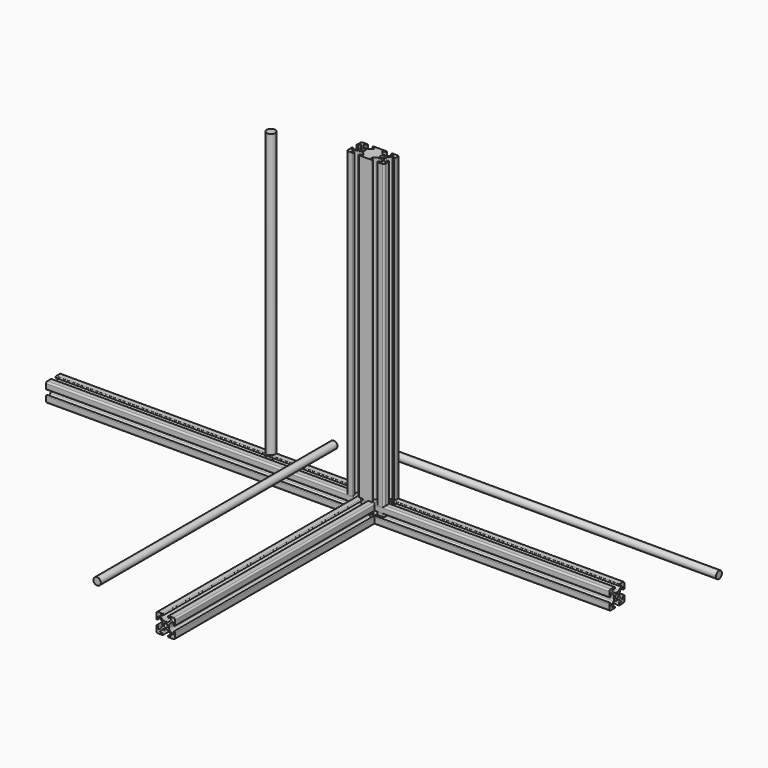
from build123d import *

# Parameters (mm, degrees)
F5_R      = 2.6035
F6_DEPTH  = 350
F7_R      = 6
F8_DEPTH  = 395
F9_R      = 5
F10_DEPTH = 440
F11_R     = 5
F12_DEPTH = 400
F13_R     = 2.6035
F14_DEPTH = 330
F15_R     = 2.6035
F16_DEPTH = 420
F17_DEPTH = 431.6


with BuildPart() as f6:
    # F5 (on Front) → F6 (new body)
    with BuildSketch(Plane.XZ):
        with BuildLine():
            Line((-4.3700887345, 12.7645782537), (-10.6184887345, 12.7645782537))
            ThreePointArc((-10.6184887345, 12.7645782537), (-12.1092112506, 12.1471007698), (-12.7266887345, 10.6563782537))
            Line((-12.7266887345, 10.6563782537), (-12.7266887345, 4.4079782537))
            ThreePointArc((-12.7266887345, 4.4079782537), (-11.6217887345, 3.3030782537), (-10.5168887345, 4.4079782537))
            Line((-10.5168887345, 4.4079782537), (-10.5168887345, 6.4641082537))
            ThreePointArc((-10.5168887345, 6.4641082537), (-9.8787192133, 7.4191964369), (-8.7521158863, 7.195101102))
            Line((-8.7521158863, 7.195101102), (-5.4651247043, 3.90810992))
            ThreePointArc((-5.4651247043, 3.90810992), (-4.7768712188, 2.8780657875), (-4.5351887345, 1.6630458897))
            Line((-4.5351887345, 1.6630458897), (-4.5351887345, -1.5338893822))
            ThreePointArc((-4.5351887345, -1.5338893822), (-4.7768712188, -2.74890928), (-5.4651247043, -3.7789534125))
            Line((-5.4651247043, -3.7789534125), (-8.7521158863, -7.0659445945))
            ThreePointArc((-8.7521158863, -7.0659445945), (-9.8787192133, -7.2900399294), (-10.5168887345, -6.3349517463))
            Line((-10.5168887345, -6.3349517463), (-10.5168887345, -4.2788217463))
            ThreePointArc((-10.5168887345, -4.2788217463), (-11.6217887345, -3.1739217463), (-12.7266887345, -4.2788217463))
            Line((-12.7266887345, -4.2788217463), (-12.7266887345, -10.5272217463))
            ThreePointArc((-12.7266887345, -10.5272217463), (-12.1092112506, -12.0179442624), (-10.6184887345, -12.6354217463))
            Line((-10.6184887345, -12.6354217463), (-4.3700887345, -12.6354217463))
            ThreePointArc((-4.3700887345, -12.6354217463), (-3.2651887345, -11.5305217463), (-4.3700887345, -10.4256217463))
            Line((-4.3700887345, -10.4256217463), (-6.4262187345, -10.4256217463))
            ThreePointArc((-6.4262187345, -10.4256217463), (-7.3813069177, -9.787452225), (-7.1572115828, -8.660848898))
            Line((-7.1572115828, -8.660848898), (-3.8702204008, -5.373857716))
            ThreePointArc((-3.8702204008, -5.373857716), (-2.8401762683, -4.6856042305), (-1.6251563705, -4.4439217463))
            Line((-1.6251563705, -4.4439217463), (1.5717789014, -4.4439217463))
            ThreePointArc((1.5717789014, -4.4439217463), (2.7867987992, -4.6856042305), (3.8168429317, -5.373857716))
            Line((3.8168429317, -5.373857716), (7.1038341137, -8.660848898))
            ThreePointArc((7.1038341137, -8.660848898), (7.3279294486, -9.787452225), (6.3728412655, -10.4256217463))
            Line((6.3728412655, -10.4256217463), (4.3167112655, -10.4256217463))
            ThreePointArc((4.3167112655, -10.4256217463), (3.2118112655, -11.5305217463), (4.3167112655, -12.6354217463))
            Line((4.3167112655, -12.6354217463), (10.5651112655, -12.6354217463))
            ThreePointArc((10.5651112655, -12.6354217463), (12.0558337816, -12.0179442624), (12.6733112655, -10.5272217463))
            Line((12.6733112655, -10.5272217463), (12.6733112655, -4.2788217463))
            ThreePointArc((12.6733112655, -4.2788217463), (11.5684112655, -3.1739217463), (10.4635112655, -4.2788217463))
            Line((10.4635112655, -4.2788217463), (10.4635112655, -6.3349517463))
            ThreePointArc((10.4635112655, -6.3349517463), (9.8253417442, -7.2900399294), (8.6987384172, -7.0659445945))
            Line((8.6987384172, -7.0659445945), (5.4117472352, -3.7789534125))
            ThreePointArc((5.4117472352, -3.7789534125), (4.7234937497, -2.74890928), (4.4818112655, -1.5338893822))
            Line((4.4818112655, -1.5338893822), (4.4818112655, 1.6630458897))
            ThreePointArc((4.4818112655, 1.6630458897), (4.7234937497, 2.8780657875), (5.4117472352, 3.90810992))
            Line((5.4117472352, 3.90810992), (8.6987384172, 7.195101102))
            ThreePointArc((8.6987384172, 7.195101102), (9.8253417442, 7.4191964369), (10.4635112655, 6.4641082537))
            Line((10.4635112655, 6.4641082537), (10.4635112655, 4.4079782537))
            ThreePointArc((10.4635112655, 4.4079782537), (11.5684112655, 3.3030782537), (12.6733112655, 4.4079782537))
            Line((12.6733112655, 4.4079782537), (12.6733112655, 10.6563782537))
            ThreePointArc((12.6733112655, 10.6563782537), (12.0558337816, 12.1471007698), (10.5651112655, 12.7645782537))
            Line((10.5651112655, 12.7645782537), (4.3167112655, 12.7645782537))
            ThreePointArc((4.3167112655, 12.7645782537), (3.2118112655, 11.6596782537), (4.3167112655, 10.5547782537))
            Line((4.3167112655, 10.5547782537), (6.3728412655, 10.5547782537))
            ThreePointArc((6.3728412655, 10.5547782537), (7.3279294486, 9.9166087325), (7.1038341137, 8.7900054055))
            Line((7.1038341137, 8.7900054055), (3.8168429317, 5.5030142235))
            ThreePointArc((3.8168429317, 5.5030142235), (2.7867987992, 4.814760738), (1.5717789014, 4.5730782537))
            Line((1.5717789014, 4.5730782537), (-1.6251563705, 4.5730782537))
            ThreePointArc((-1.6251563705, 4.5730782537), (-2.8401762683, 4.814760738), (-3.8702204008, 5.5030142235))
            Line((-3.8702204008, 5.5030142235), (-7.1572115828, 8.7900054055))
            ThreePointArc((-7.1572115828, 8.7900054055), (-7.3813069177, 9.9166087325), (-6.4262187345, 10.5547782537))
            Line((-6.4262187345, 10.5547782537), (-4.3700887345, 10.5547782537))
            ThreePointArc((-4.3700887345, 10.5547782537), (-3.2651887345, 11.6596782537), (-4.3700887345, 12.7645782537))
        make_face()
        with Locations((-0.0266887345, 0.0645782537)):
            Circle(F5_R, mode=Mode.SUBTRACT)
    extrude(amount=F6_DEPTH)


with BuildPart() as f8:
    # F7 (on Top) → F8 (new body)
    with BuildSketch(Plane.XY):
        with Locations((-145.1265960932, 9.3670319766)):
            Circle(F7_R)
    extrude(amount=F8_DEPTH)


with BuildPart() as f10:
    # F9 (on Right) → F10 (new body)
    with BuildSketch(Plane.YZ):
        with Locations((35.0870341063, 47.0510870218)):
            Circle(F9_R)
    extrude(amount=F10_DEPTH)


with BuildPart() as f12:
    # F11 (on Front) → F12 (new body)
    with BuildSketch(Plane.XZ):
        with Locations((-52.7701899409, 55.8588542044)):
            Circle(F11_R)
    extrude(amount=F12_DEPTH)


with BuildPart() as f14:
    # F13 (on Right) → F14 (new body)
    with BuildSketch(Plane.YZ):
        with BuildLine():
            Line((-4.3700887345, 12.7645782537), (-10.6184887345, 12.7645782537))
            ThreePointArc((-10.6184887345, 12.7645782537), (-12.1092112506, 12.1471007698), (-12.7266887345, 10.6563782537))
            Line((-12.7266887345, 10.6563782537), (-12.7266887345, 4.4079782537))
            ThreePointArc((-12.7266887345, 4.4079782537), (-11.6217887345, 3.3030782537), (-10.5168887345, 4.4079782537))
            Line((-10.5168887345, 4.4079782537), (-10.5168887345, 6.4641082537))
            ThreePointArc((-10.5168887345, 6.4641082537), (-9.8787192133, 7.4191964369), (-8.7521158863, 7.195101102))
            Line((-8.7521158863, 7.195101102), (-5.4651247043, 3.90810992))
            ThreePointArc((-5.4651247043, 3.90810992), (-4.7768712188, 2.8780657875), (-4.5351887345, 1.6630458897))
            Line((-4.5351887345, 1.6630458897), (-4.5351887345, -1.5338893822))
            ThreePointArc((-4.5351887345, -1.5338893822), (-4.7768712188, -2.74890928), (-5.4651247043, -3.7789534125))
            Line((-5.4651247043, -3.7789534125), (-8.7521158863, -7.0659445945))
            ThreePointArc((-8.7521158863, -7.0659445945), (-9.8787192133, -7.2900399294), (-10.5168887345, -6.3349517463))
            Line((-10.5168887345, -6.3349517463), (-10.5168887345, -4.2788217463))
            ThreePointArc((-10.5168887345, -4.2788217463), (-11.6217887345, -3.1739217463), (-12.7266887345, -4.2788217463))
            Line((-12.7266887345, -4.2788217463), (-12.7266887345, -10.5272217463))
            ThreePointArc((-12.7266887345, -10.5272217463), (-12.1092112506, -12.0179442624), (-10.6184887345, -12.6354217463))
            Line((-10.6184887345, -12.6354217463), (-4.3700887345, -12.6354217463))
            ThreePointArc((-4.3700887345, -12.6354217463), (-3.2651887345, -11.5305217463), (-4.3700887345, -10.4256217463))
            Line((-4.3700887345, -10.4256217463), (-6.4262187345, -10.4256217463))
            ThreePointArc((-6.4262187345, -10.4256217463), (-7.3813069177, -9.787452225), (-7.1572115828, -8.660848898))
            Line((-7.1572115828, -8.660848898), (-3.8702204008, -5.373857716))
            ThreePointArc((-3.8702204008, -5.373857716), (-2.8401762683, -4.6856042305), (-1.6251563705, -4.4439217463))
            Line((-1.6251563705, -4.4439217463), (1.5717789014, -4.4439217463))
            ThreePointArc((1.5717789014, -4.4439217463), (2.7867987992, -4.6856042305), (3.8168429317, -5.373857716))
            Line((3.8168429317, -5.373857716), (7.1038341137, -8.660848898))
            ThreePointArc((7.1038341137, -8.660848898), (7.3279294486, -9.787452225), (6.3728412655, -10.4256217463))
            Line((6.3728412655, -10.4256217463), (4.3167112655, -10.4256217463))
            ThreePointArc((4.3167112655, -10.4256217463), (3.2118112655, -11.5305217463), (4.3167112655, -12.6354217463))
            Line((4.3167112655, -12.6354217463), (10.5651112655, -12.6354217463))
            ThreePointArc((10.5651112655, -12.6354217463), (12.0558337816, -12.0179442624), (12.6733112655, -10.5272217463))
            Line((12.6733112655, -10.5272217463), (12.6733112655, -4.2788217463))
            ThreePointArc((12.6733112655, -4.2788217463), (11.5684112655, -3.1739217463), (10.4635112655, -4.2788217463))
            Line((10.4635112655, -4.2788217463), (10.4635112655, -6.3349517463))
            ThreePointArc((10.4635112655, -6.3349517463), (9.8253417442, -7.2900399294), (8.6987384172, -7.0659445945))
            Line((8.6987384172, -7.0659445945), (5.4117472352, -3.7789534125))
            ThreePointArc((5.4117472352, -3.7789534125), (4.7234937497, -2.74890928), (4.4818112655, -1.5338893822))
            Line((4.4818112655, -1.5338893822), (4.4818112655, 1.6630458897))
            ThreePointArc((4.4818112655, 1.6630458897), (4.7234937497, 2.8780657875), (5.4117472352, 3.90810992))
            Line((5.4117472352, 3.90810992), (8.6987384172, 7.195101102))
            ThreePointArc((8.6987384172, 7.195101102), (9.8253417442, 7.4191964369), (10.4635112655, 6.4641082537))
            Line((10.4635112655, 6.4641082537), (10.4635112655, 4.4079782537))
            ThreePointArc((10.4635112655, 4.4079782537), (11.5684112655, 3.3030782537), (12.6733112655, 4.4079782537))
            Line((12.6733112655, 4.4079782537), (12.6733112655, 10.6563782537))
            ThreePointArc((12.6733112655, 10.6563782537), (12.0558337816, 12.1471007698), (10.5651112655, 12.7645782537))
            Line((10.5651112655, 12.7645782537), (4.3167112655, 12.7645782537))
            ThreePointArc((4.3167112655, 12.7645782537), (3.2118112655, 11.6596782537), (4.3167112655, 10.5547782537))
            Line((4.3167112655, 10.5547782537), (6.3728412655, 10.5547782537))
            ThreePointArc((6.3728412655, 10.5547782537), (7.3279294486, 9.9166087325), (7.1038341137, 8.7900054055))
            Line((7.1038341137, 8.7900054055), (3.8168429317, 5.5030142235))
            ThreePointArc((3.8168429317, 5.5030142235), (2.7867987992, 4.814760738), (1.5717789014, 4.5730782537))
            Line((1.5717789014, 4.5730782537), (-1.6251563705, 4.5730782537))
            ThreePointArc((-1.6251563705, 4.5730782537), (-2.8401762683, 4.814760738), (-3.8702204008, 5.5030142235))
            Line((-3.8702204008, 5.5030142235), (-7.1572115828, 8.7900054055))
            ThreePointArc((-7.1572115828, 8.7900054055), (-7.3813069177, 9.9166087325), (-6.4262187345, 10.5547782537))
            Line((-6.4262187345, 10.5547782537), (-4.3700887345, 10.5547782537))
            ThreePointArc((-4.3700887345, 10.5547782537), (-3.2651887345, 11.6596782537), (-4.3700887345, 12.7645782537))
        make_face()
        with Locations((-0.0266887345, 0.0645782537)):
            Circle(F13_R, mode=Mode.SUBTRACT)
    extrude(amount=F14_DEPTH)


with BuildPart() as f16:
    # F15 (on Top) → F16 (new body)
    with BuildSketch(Plane.XY):
        with BuildLine():
            Line((-17.0434, 12.7), (-23.2918, 12.7))
            ThreePointArc((-23.2918, 12.7), (-24.7825225161, 12.0825225161), (-25.4, 10.5918))
            Line((-25.4, 10.5918), (-25.4, 4.3434))
            ThreePointArc((-25.4, 4.3434), (-24.2951, 3.2385), (-23.1902, 4.3434))
            Line((-23.1902, 4.3434), (-23.1902, 6.39953))
            ThreePointArc((-23.1902, 6.39953), (-22.5520304787, 7.3546181831), (-21.4254271517, 7.1305228483))
            Line((-21.4254271517, 7.1305228483), (-18.1384359697, 3.8435316662))
            ThreePointArc((-18.1384359697, 3.8435316662), (-17.4501824843, 2.8134875337), (-17.2085, 1.598467636))
            Line((-17.2085, 1.598467636), (-17.2085, -1.598467636))
            ThreePointArc((-17.2085, -1.598467636), (-17.4501824843, -2.8134875337), (-18.1384359697, -3.8435316662))
            Line((-18.1384359697, -3.8435316662), (-21.4254271517, -7.1305228483))
            ThreePointArc((-21.4254271517, -7.1305228483), (-22.5520304787, -7.3546181831), (-23.1902, -6.39953))
            Line((-23.1902, -6.39953), (-23.1902, -4.3434))
            ThreePointArc((-23.1902, -4.3434), (-24.2951, -3.2385), (-25.4, -4.3434))
            Line((-25.4, -4.3434), (-25.4, -10.5918))
            ThreePointArc((-25.4, -10.5918), (-24.7825225161, -12.0825225161), (-23.2918, -12.7))
            Line((-23.2918, -12.7), (-17.0434, -12.7))
            ThreePointArc((-17.0434, -12.7), (-15.9385, -11.5951), (-17.0434, -10.4902))
            Line((-17.0434, -10.4902), (-19.09953, -10.4902))
            ThreePointArc((-19.09953, -10.4902), (-20.0546181831, -9.8520304787), (-19.8305228483, -8.7254271517))
            Line((-19.8305228483, -8.7254271517), (-16.5435316662, -5.4384359697))
            ThreePointArc((-16.5435316662, -5.4384359697), (-15.5134875337, -4.7501824843), (-14.298467636, -4.5085))
            Line((-14.298467636, -4.5085), (-11.101532364, -4.5085))
            ThreePointArc((-11.101532364, -4.5085), (-9.8865124663, -4.7501824843), (-8.8564683338, -5.4384359697))
            Line((-8.8564683338, -5.4384359697), (-5.5694771517, -8.7254271517))
            ThreePointArc((-5.5694771517, -8.7254271517), (-5.3453818169, -9.8520304787), (-6.30047, -10.4902))
            Line((-6.30047, -10.4902), (-8.3566, -10.4902))
            ThreePointArc((-8.3566, -10.4902), (-9.4615, -11.5951), (-8.3566, -12.7))
            Line((-8.3566, -12.7), (2.1082, -12.7))
            Line((2.1082, -12.7), (8.3566, -12.7))
            ThreePointArc((8.3566, -12.7), (9.4615, -11.5951), (8.3566, -10.4902))
            Line((8.3566, -10.4902), (6.30047, -10.4902))
            ThreePointArc((6.30047, -10.4902), (5.3453818169, -9.8520304787), (5.5694771517, -8.7254271517))
            Line((5.5694771517, -8.7254271517), (8.8564683338, -5.4384359697))
            ThreePointArc((8.8564683338, -5.4384359697), (9.8865124663, -4.7501824843), (11.101532364, -4.5085))
            Line((11.101532364, -4.5085), (14.298467636, -4.5085))
            ThreePointArc((14.298467636, -4.5085), (15.5134875337, -4.7501824843), (16.5435316662, -5.4384359697))
            Line((16.5435316662, -5.4384359697), (19.8305228483, -8.7254271517))
            ThreePointArc((19.8305228483, -8.7254271517), (20.0546181831, -9.8520304787), (19.09953, -10.4902))
            Line((19.09953, -10.4902), (17.0434, -10.4902))
            ThreePointArc((17.0434, -10.4902), (15.9385, -11.5951), (17.0434, -12.7))
            Line((17.0434, -12.7), (23.2918, -12.7))
            ThreePointArc((23.2918, -12.7), (24.7825225161, -12.0825225161), (25.4, -10.5918))
            Line((25.4, -10.5918), (25.4, -4.3434))
            ThreePointArc((25.4, -4.3434), (24.2951, -3.2385), (23.1902, -4.3434))
            Line((23.1902, -4.3434), (23.1902, -6.39953))
            ThreePointArc((23.1902, -6.39953), (22.5520304787, -7.3546181831), (21.4254271517, -7.1305228483))
            Line((21.4254271517, -7.1305228483), (18.1384359697, -3.8435316662))
            ThreePointArc((18.1384359697, -3.8435316662), (17.4501824843, -2.8134875337), (17.2085, -1.598467636))
            Line((17.2085, -1.598467636), (17.2085, 1.598467636))
            ThreePointArc((17.2085, 1.598467636), (17.4501824843, 2.8134875337), (18.1384359697, 3.8435316662))
            Line((18.1384359697, 3.8435316662), (21.4254271517, 7.1305228483))
            ThreePointArc((21.4254271517, 7.1305228483), (22.5520304787, 7.3546181831), (23.1902, 6.39953))
            Line((23.1902, 6.39953), (23.1902, 4.3434))
            ThreePointArc((23.1902, 4.3434), (24.2951, 3.2385), (25.4, 4.3434))
            Line((25.4, 4.3434), (25.4, 10.5918))
            ThreePointArc((25.4, 10.5918), (24.7825225161, 12.0825225161), (23.2918, 12.7))
            Line((23.2918, 12.7), (17.0434, 12.7))
            ThreePointArc((17.0434, 12.7), (15.9385, 11.5951), (17.0434, 10.4902))
            Line((17.0434, 10.4902), (19.09953, 10.4902))
            ThreePointArc((19.09953, 10.4902), (20.0546181831, 9.8520304787), (19.8305228483, 8.7254271517))
            Line((19.8305228483, 8.7254271517), (16.5435316662, 5.4384359697))
            ThreePointArc((16.5435316662, 5.4384359697), (15.5134875337, 4.7501824843), (14.298467636, 4.5085))
            Line((14.298467636, 4.5085), (11.101532364, 4.5085))
            ThreePointArc((11.101532364, 4.5085), (9.8865124663, 4.7501824843), (8.8564683338, 5.4384359697))
            Line((8.8564683338, 5.4384359697), (5.5694771517, 8.7254271517))
            ThreePointArc((5.5694771517, 8.7254271517), (5.3453818169, 9.8520304787), (6.30047, 10.4902))
            Line((6.30047, 10.4902), (8.3566, 10.4902))
            ThreePointArc((8.3566, 10.4902), (9.4615, 11.5951), (8.3566, 12.7))
            Line((8.3566, 12.7), (2.1082, 12.7))
            Line((2.1082, 12.7), (-8.3566, 12.7))
            ThreePointArc((-8.3566, 12.7), (-9.4615, 11.5951), (-8.3566, 10.4902))
            Line((-8.3566, 10.4902), (-6.30047, 10.4902))
            ThreePointArc((-6.30047, 10.4902), (-5.3453818169, 9.8520304787), (-5.5694771517, 8.7254271517))
            Line((-5.5694771517, 8.7254271517), (-8.8564683338, 5.4384359697))
            ThreePointArc((-8.8564683338, 5.4384359697), (-9.8865124663, 4.7501824843), (-11.101532364, 4.5085))
            Line((-11.101532364, 4.5085), (-14.298467636, 4.5085))
            ThreePointArc((-14.298467636, 4.5085), (-15.5134875337, 4.7501824843), (-16.5435316662, 5.4384359697))
            Line((-16.5435316662, 5.4384359697), (-19.8305228483, 8.7254271517))
            ThreePointArc((-19.8305228483, 8.7254271517), (-20.0546181831, 9.8520304787), (-19.09953, 10.4902))
            Line((-19.09953, 10.4902), (-17.0434, 10.4902))
            ThreePointArc((-17.0434, 10.4902), (-15.9385, 11.5951), (-17.0434, 12.7))
        make_face()
        with Locations((-12.7, 0)):
            Circle(F15_R, mode=Mode.SUBTRACT)
        with Locations((12.7, 0)):
            Circle(F15_R, mode=Mode.SUBTRACT)
    extrude(amount=F16_DEPTH)


with BuildPart() as f17:
    # F13 (on Right) → F17 (new body)
    with BuildSketch(Plane.YZ):
        with BuildLine():
            Line((-4.3700887345, 12.7645782537), (-10.6184887345, 12.7645782537))
            ThreePointArc((-10.6184887345, 12.7645782537), (-12.1092112506, 12.1471007698), (-12.7266887345, 10.6563782537))
            Line((-12.7266887345, 10.6563782537), (-12.7266887345, 4.4079782537))
            ThreePointArc((-12.7266887345, 4.4079782537), (-11.6217887345, 3.3030782537), (-10.5168887345, 4.4079782537))
            Line((-10.5168887345, 4.4079782537), (-10.5168887345, 6.4641082537))
            ThreePointArc((-10.5168887345, 6.4641082537), (-9.8787192133, 7.4191964369), (-8.7521158863, 7.195101102))
            Line((-8.7521158863, 7.195101102), (-5.4651247043, 3.90810992))
            ThreePointArc((-5.4651247043, 3.90810992), (-4.7768712188, 2.8780657875), (-4.5351887345, 1.6630458897))
            Line((-4.5351887345, 1.6630458897), (-4.5351887345, -1.5338893822))
            ThreePointArc((-4.5351887345, -1.5338893822), (-4.7768712188, -2.74890928), (-5.4651247043, -3.7789534125))
            Line((-5.4651247043, -3.7789534125), (-8.7521158863, -7.0659445945))
            ThreePointArc((-8.7521158863, -7.0659445945), (-9.8787192133, -7.2900399294), (-10.5168887345, -6.3349517463))
            Line((-10.5168887345, -6.3349517463), (-10.5168887345, -4.2788217463))
            ThreePointArc((-10.5168887345, -4.2788217463), (-11.6217887345, -3.1739217463), (-12.7266887345, -4.2788217463))
            Line((-12.7266887345, -4.2788217463), (-12.7266887345, -10.5272217463))
            ThreePointArc((-12.7266887345, -10.5272217463), (-12.1092112506, -12.0179442624), (-10.6184887345, -12.6354217463))
            Line((-10.6184887345, -12.6354217463), (-4.3700887345, -12.6354217463))
            ThreePointArc((-4.3700887345, -12.6354217463), (-3.2651887345, -11.5305217463), (-4.3700887345, -10.4256217463))
            Line((-4.3700887345, -10.4256217463), (-6.4262187345, -10.4256217463))
            ThreePointArc((-6.4262187345, -10.4256217463), (-7.3813069177, -9.787452225), (-7.1572115828, -8.660848898))
            Line((-7.1572115828, -8.660848898), (-3.8702204008, -5.373857716))
            ThreePointArc((-3.8702204008, -5.373857716), (-2.8401762683, -4.6856042305), (-1.6251563705, -4.4439217463))
            Line((-1.6251563705, -4.4439217463), (1.5717789014, -4.4439217463))
            ThreePointArc((1.5717789014, -4.4439217463), (2.7867987992, -4.6856042305), (3.8168429317, -5.373857716))
            Line((3.8168429317, -5.373857716), (7.1038341137, -8.660848898))
            ThreePointArc((7.1038341137, -8.660848898), (7.3279294486, -9.787452225), (6.3728412655, -10.4256217463))
            Line((6.3728412655, -10.4256217463), (4.3167112655, -10.4256217463))
            ThreePointArc((4.3167112655, -10.4256217463), (3.2118112655, -11.5305217463), (4.3167112655, -12.6354217463))
            Line((4.3167112655, -12.6354217463), (10.5651112655, -12.6354217463))
            ThreePointArc((10.5651112655, -12.6354217463), (12.0558337816, -12.0179442624), (12.6733112655, -10.5272217463))
            Line((12.6733112655, -10.5272217463), (12.6733112655, -4.2788217463))
            ThreePointArc((12.6733112655, -4.2788217463), (11.5684112655, -3.1739217463), (10.4635112655, -4.2788217463))
            Line((10.4635112655, -4.2788217463), (10.4635112655, -6.3349517463))
            ThreePointArc((10.4635112655, -6.3349517463), (9.8253417442, -7.2900399294), (8.6987384172, -7.0659445945))
            Line((8.6987384172, -7.0659445945), (5.4117472352, -3.7789534125))
            ThreePointArc((5.4117472352, -3.7789534125), (4.7234937497, -2.74890928), (4.4818112655, -1.5338893822))
            Line((4.4818112655, -1.5338893822), (4.4818112655, 1.6630458897))
            ThreePointArc((4.4818112655, 1.6630458897), (4.7234937497, 2.8780657875), (5.4117472352, 3.90810992))
            Line((5.4117472352, 3.90810992), (8.6987384172, 7.195101102))
            ThreePointArc((8.6987384172, 7.195101102), (9.8253417442, 7.4191964369), (10.4635112655, 6.4641082537))
            Line((10.4635112655, 6.4641082537), (10.4635112655, 4.4079782537))
            ThreePointArc((10.4635112655, 4.4079782537), (11.5684112655, 3.3030782537), (12.6733112655, 4.4079782537))
            Line((12.6733112655, 4.4079782537), (12.6733112655, 10.6563782537))
            ThreePointArc((12.6733112655, 10.6563782537), (12.0558337816, 12.1471007698), (10.5651112655, 12.7645782537))
            Line((10.5651112655, 12.7645782537), (4.3167112655, 12.7645782537))
            ThreePointArc((4.3167112655, 12.7645782537), (3.2118112655, 11.6596782537), (4.3167112655, 10.5547782537))
            Line((4.3167112655, 10.5547782537), (6.3728412655, 10.5547782537))
            ThreePointArc((6.3728412655, 10.5547782537), (7.3279294486, 9.9166087325), (7.1038341137, 8.7900054055))
            Line((7.1038341137, 8.7900054055), (3.8168429317, 5.5030142235))
            ThreePointArc((3.8168429317, 5.5030142235), (2.7867987992, 4.814760738), (1.5717789014, 4.5730782537))
            Line((1.5717789014, 4.5730782537), (-1.6251563705, 4.5730782537))
            ThreePointArc((-1.6251563705, 4.5730782537), (-2.8401762683, 4.814760738), (-3.8702204008, 5.5030142235))
            Line((-3.8702204008, 5.5030142235), (-7.1572115828, 8.7900054055))
            ThreePointArc((-7.1572115828, 8.7900054055), (-7.3813069177, 9.9166087325), (-6.4262187345, 10.5547782537))
            Line((-6.4262187345, 10.5547782537), (-4.3700887345, 10.5547782537))
            ThreePointArc((-4.3700887345, 10.5547782537), (-3.2651887345, 11.6596782537), (-4.3700887345, 12.7645782537))
        make_face()
        with Locations((-0.0266887345, 0.0645782537)):
            Circle(F13_R, mode=Mode.SUBTRACT)
    extrude(amount=-F17_DEPTH)


solid = Compound([f6.part, f8.part, f10.part, f12.part, f14.part, f16.part, f17.part])
